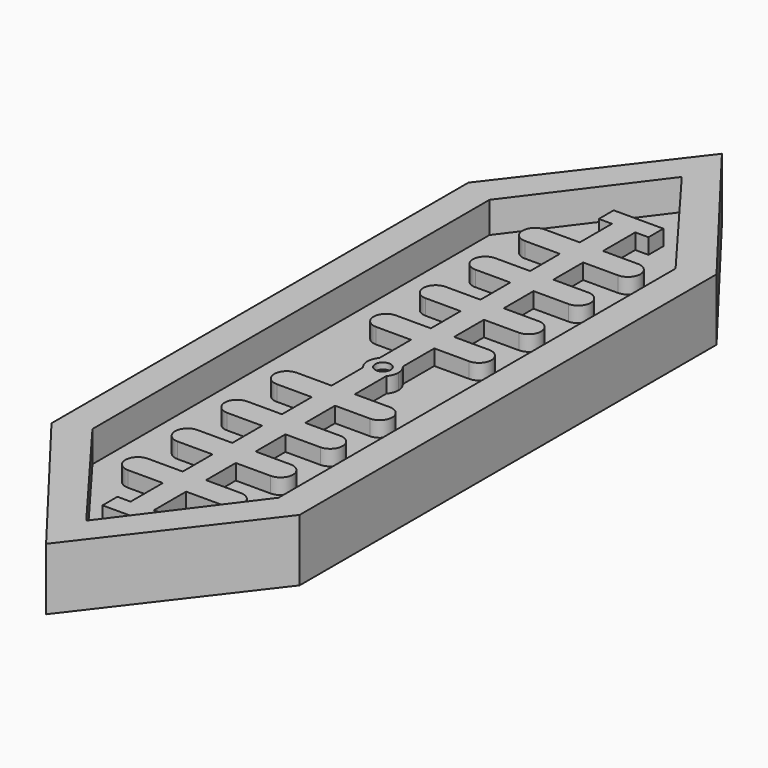
from build123d import *

# Parameters (mm, degrees)
F1_DEPTH = 6.35
F2_DEPTH = 12.7
F0_R     = 1.5875
F3_DEPTH = 8.255
F0_W     = 2.69875
F0_H     = 1.905
F0_W_2   = 4.7625
F0_H_2   = 8.255
F0_W_3   = 7.14375
F0_H_3   = 2.54
F0_H_4   = 7.62
F4_DEPTH = 9.525


with BuildPart() as f1:
    # F0 (on Top) → F1 (new body)
    with BuildSketch(Plane.XY):
        Polygon((0, 76.4734150854), (-19.05, 51.0734150854), (-19.05, -50.5265849146), (0, -75.9265849146), (19.05, -50.5265849146), (19.05, 51.0734150854), align=None)
        with BuildLine():
            ThreePointArc((2.38125, 2.1000651032), (2.9699405508, 1.1225320151), (3.175, 0))
            ThreePointArc((3.175, 0), (2.9699405508, -1.1225320151), (2.38125, -2.1000651032))
            Line((2.38125, -2.1000651032), (2.38125, -10.16))
            Line((2.38125, -10.16), (9.525, -10.16))
            ThreePointArc((9.525, -10.16), (12.065, -12.7), (9.525, -15.24))
            Line((9.525, -15.24), (2.38125, -15.24))
            Line((2.38125, -15.24), (2.38125, -22.86))
            Line((2.38125, -22.86), (9.525, -22.86))
            ThreePointArc((9.525, -22.86), (12.065, -25.4), (9.525, -27.94))
            Line((9.525, -27.94), (2.38125, -27.94))
            Line((2.38125, -27.94), (2.38125, -35.56))
            Line((2.38125, -35.56), (9.525, -35.56))
            ThreePointArc((9.525, -35.56), (12.065, -38.1), (9.525, -40.64))
            Line((9.525, -40.64), (2.38125, -40.64))
            Line((2.38125, -40.64), (2.38125, -48.26))
            Line((2.38125, -48.26), (9.525, -48.26))
            ThreePointArc((9.525, -48.26), (12.065, -50.8), (9.525, -53.34))
            Line((9.525, -53.34), (2.38125, -53.34))
            Line((2.38125, -53.34), (2.38125, -61.595))
            Line((2.38125, -61.595), (5.08, -61.595))
            Line((5.08, -61.595), (5.08, -63.5))
            Line((5.08, -63.5), (5.08, -65.405))
            Line((5.08, -65.405), (-5.08, -65.405))
            Line((-5.08, -65.405), (-5.08, -63.5))
            Line((-5.08, -63.5), (-5.08, -61.595))
            Line((-5.08, -61.595), (-2.38125, -61.595))
            Line((-2.38125, -61.595), (-2.38125, -53.34))
            Line((-2.38125, -53.34), (-9.525, -53.34))
            ThreePointArc((-9.525, -53.34), (-12.065, -50.8), (-9.525, -48.26))
            Line((-9.525, -48.26), (-2.38125, -48.26))
            Line((-2.38125, -48.26), (-2.38125, -40.64))
            Line((-2.38125, -40.64), (-9.525, -40.64))
            ThreePointArc((-9.525, -40.64), (-12.065, -38.1), (-9.525, -35.56))
            Line((-9.525, -35.56), (-2.38125, -35.56))
            Line((-2.38125, -35.56), (-2.38125, -27.94))
            Line((-2.38125, -27.94), (-9.525, -27.94))
            ThreePointArc((-9.525, -27.94), (-12.065, -25.4), (-9.525, -22.86))
            Line((-9.525, -22.86), (-2.38125, -22.86))
            Line((-2.38125, -22.86), (-2.38125, -15.24))
            Line((-2.38125, -15.24), (-9.525, -15.24))
            ThreePointArc((-9.525, -15.24), (-12.065, -12.7), (-9.525, -10.16))
            Line((-9.525, -10.16), (-2.38125, -10.16))
            Line((-2.38125, -10.16), (-2.38125, -2.1000651032))
            ThreePointArc((-2.38125, -2.1000651032), (-3.175, 0), (-2.38125, 2.1000651032))
            Line((-2.38125, 2.1000651032), (-2.38125, 10.16))
            Line((-2.38125, 10.16), (-9.525, 10.16))
            ThreePointArc((-9.525, 10.16), (-12.065, 12.7), (-9.525, 15.24))
            Line((-9.525, 15.24), (-2.38125, 15.24))
            Line((-2.38125, 15.24), (-2.38125, 22.86))
            Line((-2.38125, 22.86), (-9.525, 22.86))
            ThreePointArc((-9.525, 22.86), (-12.065, 25.4), (-9.525, 27.94))
            Line((-9.525, 27.94), (-2.38125, 27.94))
            Line((-2.38125, 27.94), (-2.38125, 35.56))
            Line((-2.38125, 35.56), (-9.525, 35.56))
            ThreePointArc((-9.525, 35.56), (-12.065, 38.1), (-9.525, 40.64))
            Line((-9.525, 40.64), (-2.38125, 40.64))
            Line((-2.38125, 40.64), (-2.38125, 48.26))
            Line((-2.38125, 48.26), (-9.525, 48.26))
            ThreePointArc((-9.525, 48.26), (-12.065, 50.8), (-9.525, 53.34))
            Line((-9.525, 53.34), (-2.38125, 53.34))
            Line((-2.38125, 53.34), (-2.38125, 61.595))
            Line((-2.38125, 61.595), (-5.08, 61.595))
            Line((-5.08, 61.595), (-5.08, 63.5))
            Line((-5.08, 63.5), (-5.08, 65.405))
            Line((-5.08, 65.405), (5.08, 65.405))
            Line((5.08, 65.405), (5.08, 63.5))
            Line((5.08, 63.5), (5.08, 61.595))
            Line((5.08, 61.595), (2.38125, 61.595))
            Line((2.38125, 61.595), (2.38125, 53.34))
            Line((2.38125, 53.34), (9.525, 53.34))
            ThreePointArc((9.525, 53.34), (12.065, 50.8), (9.525, 48.26))
            Line((9.525, 48.26), (2.38125, 48.26))
            Line((2.38125, 48.26), (2.38125, 40.64))
            Line((2.38125, 40.64), (9.525, 40.64))
            ThreePointArc((9.525, 40.64), (12.065, 38.1), (9.525, 35.56))
            Line((9.525, 35.56), (2.38125, 35.56))
            Line((2.38125, 35.56), (2.38125, 27.94))
            Line((2.38125, 27.94), (9.525, 27.94))
            ThreePointArc((9.525, 27.94), (12.065, 25.4), (9.525, 22.86))
            Line((9.525, 22.86), (2.38125, 22.86))
            Line((2.38125, 22.86), (2.38125, 15.24))
            Line((2.38125, 15.24), (9.525, 15.24))
            ThreePointArc((9.525, 15.24), (12.065, 12.7), (9.525, 10.16))
            Line((9.525, 10.16), (2.38125, 10.16))
            Line((2.38125, 10.16), (2.38125, 2.1000651032))
        make_face(mode=Mode.SUBTRACT)
    extrude(amount=F1_DEPTH)

    # F0 (on Top) → F2 (join)
    with BuildSketch(Plane.XY):
        Polygon((0, 86.7496803403), (-25.4, 53.6134150854), (-25.4, -53.0665849146), (0, -86.2028501695), (25.4, -53.0665849146), (25.4, 53.6134150854), align=None)
        Polygon((-19.05, -50.5265849146), (-19.05, 51.0734150854), (0, 76.4734150854), (19.05, 51.0734150854), (19.05, -50.5265849146), (0, -75.9265849146), align=None, mode=Mode.SUBTRACT)
    extrude(amount=F2_DEPTH)


with BuildPart() as f3:
    # F0 (on Top) → F3 (new body)
    with BuildSketch(Plane.XY):
        Circle(F0_R)
    extrude(amount=F3_DEPTH)


with BuildPart() as f4:
    # F0 (on Top) → F4 (new body)
    with BuildSketch(Plane.XY):
        Polygon((5.08, -63.5), (2.38125, -63.5), (-2.38125, -63.5), (-5.08, -63.5), (-5.08, -65.405), (5.08, -65.405), align=None)
        with Locations((-3.730625, -62.5475)):
            Rectangle(F0_W, F0_H)
        with Locations((0, -62.5475)):
            Rectangle(F0_W_2, F0_H)
        with Locations((3.730625, -62.5475)):
            Rectangle(F0_W, F0_H)
        with Locations((0, -57.4675)):
            Rectangle(F0_W_2, F0_H_2)
        with BuildLine():
            Line((-9.525, -50.8), (-9.525, -48.26))
            ThreePointArc((-9.525, -48.26), (-12.065, -50.8), (-9.525, -53.34))
            Line((-9.525, -53.34), (-9.525, -50.8))
        make_face()
        with Locations((-5.953125, -49.53)):
            Rectangle(F0_W_3, F0_H_3)
        with Locations((-5.953125, -52.07)):
            Rectangle(F0_W_3, F0_H_3)
        with Locations((0, -52.07)):
            Rectangle(F0_W_2, F0_H_3)
        with Locations((0, -49.53)):
            Rectangle(F0_W_2, F0_H_3)
        with Locations((5.953125, -52.07)):
            Rectangle(F0_W_3, F0_H_3)
        with Locations((5.953125, -49.53)):
            Rectangle(F0_W_3, F0_H_3)
        with BuildLine():
            ThreePointArc((9.525, -53.34), (12.065, -50.8), (9.525, -48.26))
            Line((9.525, -48.26), (9.525, -50.8))
            Line((9.525, -50.8), (9.525, -53.34))
        make_face()
        with BuildLine():
            Line((-9.525, -38.1), (-9.525, -35.56))
            ThreePointArc((-9.525, -35.56), (-12.065, -38.1), (-9.525, -40.64))
            Line((-9.525, -40.64), (-9.525, -38.1))
        make_face()
        with Locations((-5.953125, -36.83)):
            Rectangle(F0_W_3, F0_H_3)
        with Locations((-5.953125, -39.37)):
            Rectangle(F0_W_3, F0_H_3)
        with Locations((0, -44.45)):
            Rectangle(F0_W_2, F0_H_4)
        with Locations((0, -39.37)):
            Rectangle(F0_W_2, F0_H_3)
        with Locations((0, -36.83)):
            Rectangle(F0_W_2, F0_H_3)
        with Locations((5.953125, -39.37)):
            Rectangle(F0_W_3, F0_H_3)
        with Locations((5.953125, -36.83)):
            Rectangle(F0_W_3, F0_H_3)
        with BuildLine():
            ThreePointArc((9.525, -40.64), (12.065, -38.1), (9.525, -35.56))
            Line((9.525, -35.56), (9.525, -38.1))
            Line((9.525, -38.1), (9.525, -40.64))
        make_face()
        with BuildLine():
            Line((-9.525, -25.4), (-9.525, -22.86))
            ThreePointArc((-9.525, -22.86), (-12.065, -25.4), (-9.525, -27.94))
            Line((-9.525, -27.94), (-9.525, -25.4))
        make_face()
        with Locations((-5.953125, -26.67)):
            Rectangle(F0_W_3, F0_H_3)
        with Locations((-5.953125, -24.13)):
            Rectangle(F0_W_3, F0_H_3)
        with Locations((0, -31.75)):
            Rectangle(F0_W_2, F0_H_4)
        with Locations((0, -26.67)):
            Rectangle(F0_W_2, F0_H_3)
        with Locations((0, -24.13)):
            Rectangle(F0_W_2, F0_H_3)
        with Locations((5.953125, -26.67)):
            Rectangle(F0_W_3, F0_H_3)
        with Locations((5.953125, -24.13)):
            Rectangle(F0_W_3, F0_H_3)
        with BuildLine():
            ThreePointArc((9.525, -27.94), (12.065, -25.4), (9.525, -22.86))
            Line((9.525, -22.86), (9.525, -25.4))
            Line((9.525, -25.4), (9.525, -27.94))
        make_face()
        with Locations((0, -19.05)):
            Rectangle(F0_W_2, F0_H_4)
        with Locations((-5.953125, -13.97)):
            Rectangle(F0_W_3, F0_H_3)
        with BuildLine():
            Line((-9.525, -12.7), (-9.525, -10.16))
            ThreePointArc((-9.525, -10.16), (-12.065, -12.7), (-9.525, -15.24))
            Line((-9.525, -15.24), (-9.525, -12.7))
        make_face()
        with Locations((-5.953125, -11.43)):
            Rectangle(F0_W_3, F0_H_3)
        with Locations((0, -11.43)):
            Rectangle(F0_W_2, F0_H_3)
        with Locations((5.953125, -13.97)):
            Rectangle(F0_W_3, F0_H_3)
        with BuildLine():
            ThreePointArc((9.525, -15.24), (12.065, -12.7), (9.525, -10.16))
            Line((9.525, -10.16), (9.525, -12.7))
            Line((9.525, -12.7), (9.525, -15.24))
        make_face()
        with Locations((0, -13.97)):
            Rectangle(F0_W_2, F0_H_3)
        with BuildLine():
            Line((2.38125, -10.16), (2.38125, -2.1000651032))
            ThreePointArc((2.38125, -2.1000651032), (0, -3.175), (-2.38125, -2.1000651032))
            Line((-2.38125, -2.1000651032), (-2.38125, -10.16))
            Line((-2.38125, -10.16), (2.38125, -10.16))
        make_face()
        with BuildLine():
            ThreePointArc((-2.38125, 2.1000651032), (0, 3.175), (2.38125, 2.1000651032))
            Line((2.38125, 2.1000651032), (2.38125, 10.16))
            Line((2.38125, 10.16), (-2.38125, 10.16))
            Line((-2.38125, 10.16), (-2.38125, 2.1000651032))
        make_face()
        with BuildLine():
            Line((2.38125, -2.1000651032), (2.38125, 2.1000651032))
            ThreePointArc((2.38125, 2.1000651032), (0, 3.175), (-2.38125, 2.1000651032))
            Line((-2.38125, 2.1000651032), (-2.38125, -2.1000651032))
            ThreePointArc((-2.38125, -2.1000651032), (0, -3.175), (2.38125, -2.1000651032))
        make_face()
        Circle(F0_R, mode=Mode.SUBTRACT)
        with BuildLine():
            ThreePointArc((2.38125, -2.1000651032), (2.9699405508, -1.1225320151), (3.175, 0))
            ThreePointArc((3.175, 0), (2.9699405508, 1.1225320151), (2.38125, 2.1000651032))
            Line((2.38125, 2.1000651032), (2.38125, -2.1000651032))
        make_face()
        with BuildLine():
            Line((-2.38125, -2.1000651032), (-2.38125, 2.1000651032))
            ThreePointArc((-2.38125, 2.1000651032), (-3.175, 0), (-2.38125, -2.1000651032))
        make_face()
        with Locations((0, 11.43)):
            Rectangle(F0_W_2, F0_H_3)
        with Locations((-5.953125, 11.43)):
            Rectangle(F0_W_3, F0_H_3)
        with BuildLine():
            ThreePointArc((-9.525, 15.24), (-12.065, 12.7), (-9.525, 10.16))
            Line((-9.525, 10.16), (-9.525, 12.7))
            Line((-9.525, 12.7), (-9.525, 15.24))
        make_face()
        with Locations((-5.953125, 13.97)):
            Rectangle(F0_W_3, F0_H_3)
        with Locations((0, 13.97)):
            Rectangle(F0_W_2, F0_H_3)
        with Locations((5.953125, 13.97)):
            Rectangle(F0_W_3, F0_H_3)
        with Locations((5.953125, 11.43)):
            Rectangle(F0_W_3, F0_H_3)
        with BuildLine():
            Line((9.525, 12.7), (9.525, 10.16))
            ThreePointArc((9.525, 10.16), (12.065, 12.7), (9.525, 15.24))
            Line((9.525, 15.24), (9.525, 12.7))
        make_face()
        with Locations((0, 19.05)):
            Rectangle(F0_W_2, F0_H_4)
        with Locations((-5.953125, 24.13)):
            Rectangle(F0_W_3, F0_H_3)
        with BuildLine():
            ThreePointArc((-9.525, 27.94), (-12.065, 25.4), (-9.525, 22.86))
            Line((-9.525, 22.86), (-9.525, 25.4))
            Line((-9.525, 25.4), (-9.525, 27.94))
        make_face()
        with Locations((-5.953125, 26.67)):
            Rectangle(F0_W_3, F0_H_3)
        with Locations((0, 26.67)):
            Rectangle(F0_W_2, F0_H_3)
        with Locations((0, 24.13)):
            Rectangle(F0_W_2, F0_H_3)
        with Locations((5.953125, 24.13)):
            Rectangle(F0_W_3, F0_H_3)
        with Locations((5.953125, 26.67)):
            Rectangle(F0_W_3, F0_H_3)
        with BuildLine():
            Line((9.525, 25.4), (9.525, 22.86))
            ThreePointArc((9.525, 22.86), (12.065, 25.4), (9.525, 27.94))
            Line((9.525, 27.94), (9.525, 25.4))
        make_face()
        with Locations((-5.953125, 36.83)):
            Rectangle(F0_W_3, F0_H_3)
        with BuildLine():
            ThreePointArc((-9.525, 40.64), (-12.065, 38.1), (-9.525, 35.56))
            Line((-9.525, 35.56), (-9.525, 38.1))
            Line((-9.525, 38.1), (-9.525, 40.64))
        make_face()
        with Locations((-5.953125, 39.37)):
            Rectangle(F0_W_3, F0_H_3)
        with Locations((0, 36.83)):
            Rectangle(F0_W_2, F0_H_3)
        with Locations((0, 31.75)):
            Rectangle(F0_W_2, F0_H_4)
        with Locations((0, 39.37)):
            Rectangle(F0_W_2, F0_H_3)
        with Locations((5.953125, 39.37)):
            Rectangle(F0_W_3, F0_H_3)
        with Locations((5.953125, 36.83)):
            Rectangle(F0_W_3, F0_H_3)
        with BuildLine():
            Line((9.525, 38.1), (9.525, 35.56))
            ThreePointArc((9.525, 35.56), (12.065, 38.1), (9.525, 40.64))
            Line((9.525, 40.64), (9.525, 38.1))
        make_face()
        with Locations((0, 44.45)):
            Rectangle(F0_W_2, F0_H_4)
        with Locations((-5.953125, 49.53)):
            Rectangle(F0_W_3, F0_H_3)
        with BuildLine():
            ThreePointArc((-9.525, 53.34), (-12.065, 50.8), (-9.525, 48.26))
            Line((-9.525, 48.26), (-9.525, 50.8))
            Line((-9.525, 50.8), (-9.525, 53.34))
        make_face()
        with Locations((-5.953125, 52.07)):
            Rectangle(F0_W_3, F0_H_3)
        with Locations((0, 52.07)):
            Rectangle(F0_W_2, F0_H_3)
        with Locations((5.953125, 49.53)):
            Rectangle(F0_W_3, F0_H_3)
        with Locations((5.953125, 52.07)):
            Rectangle(F0_W_3, F0_H_3)
        with BuildLine():
            Line((9.525, 50.8), (9.525, 48.26))
            ThreePointArc((9.525, 48.26), (12.065, 50.8), (9.525, 53.34))
            Line((9.525, 53.34), (9.525, 50.8))
        make_face()
        with Locations((0, 57.4675)):
            Rectangle(F0_W_2, F0_H_2)
        with Locations((0, 62.5475)):
            Rectangle(F0_W_2, F0_H)
        Polygon((-2.38125, 63.5), (2.38125, 63.5), (5.08, 63.5), (5.08, 65.405), (-5.08, 65.405), (-5.08, 63.5), align=None)
        with Locations((-3.730625, 62.5475)):
            Rectangle(F0_W, F0_H)
        with Locations((3.730625, 62.5475)):
            Rectangle(F0_W, F0_H)
        with Locations((0, 49.53)):
            Rectangle(F0_W_2, F0_H_3)
        with Locations((5.953125, -11.43)):
            Rectangle(F0_W_3, F0_H_3)
    extrude(amount=F4_DEPTH)


solid = Compound([f1.part, f3.part, f4.part])
